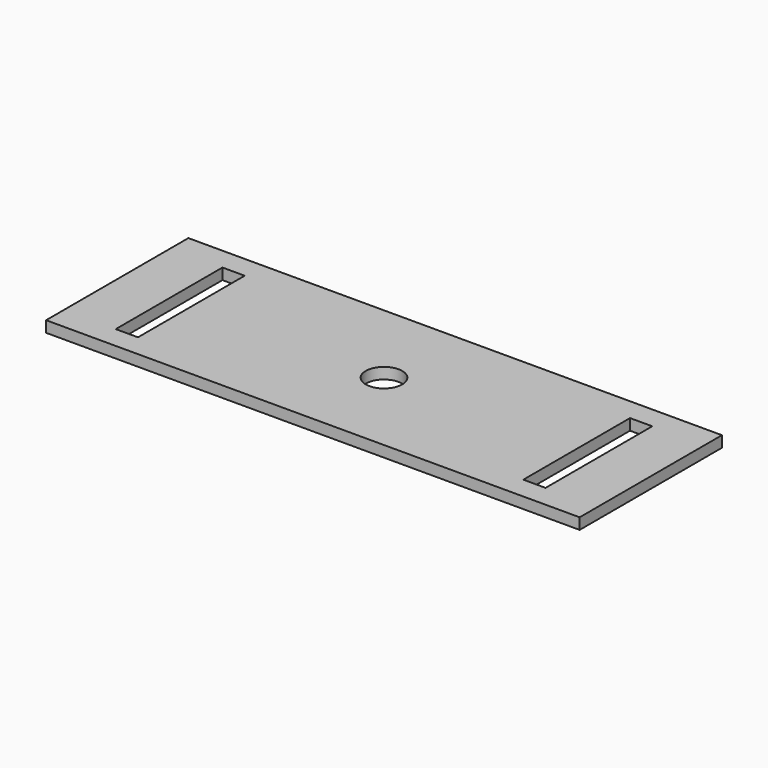
from build123d import *

# Parameters (mm, degrees)
F0_W     = 914.4
F0_H     = 304.8
F0_W_2   = 38.1
F0_H_2   = 228.6
F0_R     = 31.3055
F1_DEPTH = 19.05


with BuildPart() as f1:
    # F0 (on Top) → F1 (new body)
    with BuildSketch(Plane.XY):
        with Locations((-7.676242, -114.3)):
            Rectangle(F0_W, F0_H)
        with Locations((-356.926242, -114.3)):
            Rectangle(F0_W_2, F0_H_2, mode=Mode.SUBTRACT)
        with Locations((-7.676242, -114.3)):
            Circle(F0_R, mode=Mode.SUBTRACT)
        with Locations((341.573758, -114.3)):
            Rectangle(F0_W_2, F0_H_2, mode=Mode.SUBTRACT)
    extrude(amount=F1_DEPTH)


solid = f1.part
